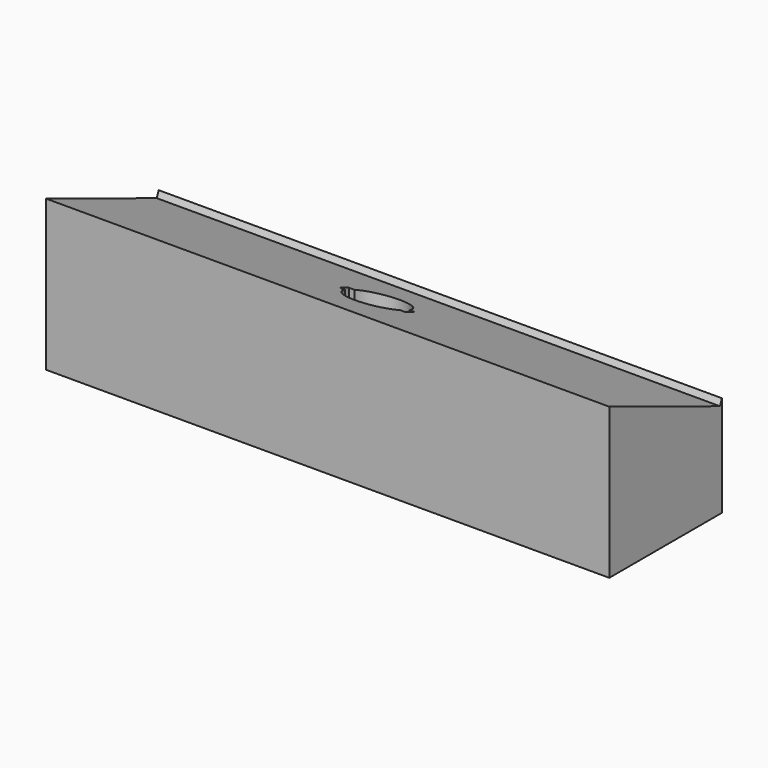
from build123d import *

# Parameters (mm, degrees)
F1_DEPTH = 304.8
F2_R     = 15.24
F3_DEPTH = 81.546806
F4_W     = 35.56
F4_H     = 6.35
F5_DEPTH = 81.546806


with BuildPart() as f1:
    # F0 (on Right) → F1 (new body)
    with BuildSketch(Plane.YZ):
        Polygon((0, 81.545806), (0, 0), (76.2, 0), (76.2, 50.8), (74.877944, 51.333434), align=None)
        Polygon((76.2, 54.61), (74.877944, 51.333434), (76.2, 50.8), align=None)
    extrude(amount=-F1_DEPTH)

    # F2 (on Top) → F3 (cut, through all)
    with BuildSketch(Plane.XY):
        with Locations((-156.039268, 38.1)):
            Circle(F2_R)
    extrude(amount=F3_DEPTH, mode=Mode.SUBTRACT)

    # F4 (on face) → F5 (cut, through all)
    with BuildSketch(Plane(origin=(0, 0, 0), x_dir=(1, 0, 0), z_dir=(0, 0, -1))):
        with Locations((-156.136081, -38.1)):
            Rectangle(F4_W, F4_H)
    extrude(amount=-F5_DEPTH, mode=Mode.SUBTRACT)


solid = f1.part
